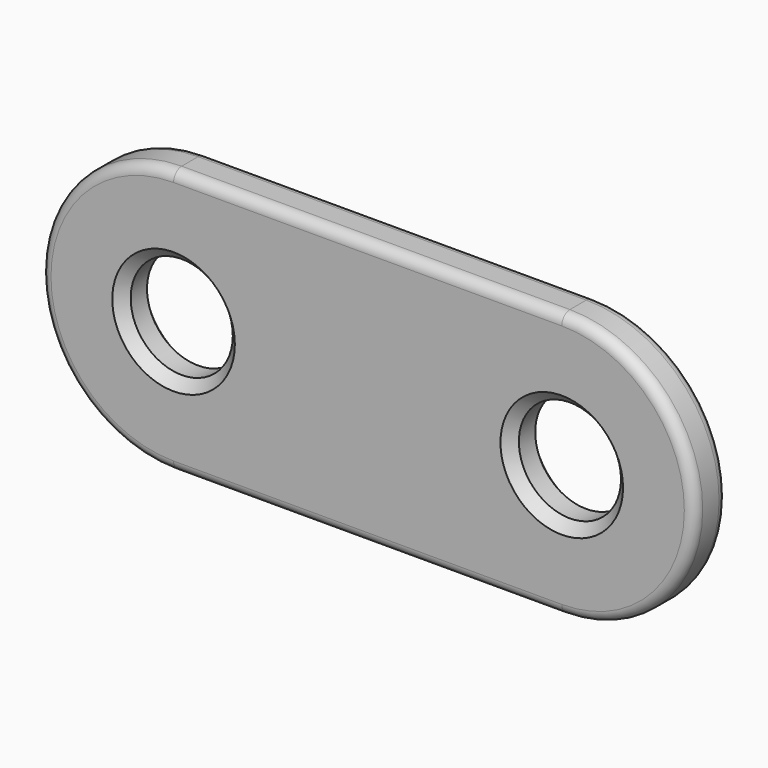
from build123d import *

# Parameters (mm, degrees)
F0_R     = 2.5
F1_DEPTH = 2
F2_SIZE  = 0.5
F3_R     = 0.5


with BuildPart() as f1:
    # F0 (on Front) → F1 (new body)
    with BuildSketch(Plane.XZ):
        with BuildLine():
            Line((-2.641257, 12.3198), (-21.641257, 12.3198))
            ThreePointArc((-21.641257, 12.3198), (-28.141257, 5.8198), (-21.641257, -0.6802))
            Line((-21.641257, -0.6802), (-2.641257, -0.6802))
            ThreePointArc((-2.641257, -0.6802), (3.858743, 5.8198), (-2.641257, 12.3198))
        make_face()
        with Locations((-21.641257, 5.8198)):
            Circle(F0_R, mode=Mode.SUBTRACT)
        with Locations((-2.641257, 5.8198)):
            Circle(F0_R, mode=Mode.SUBTRACT)
    extrude(amount=F1_DEPTH)

    # F2
    f2_edges = [f1.edges().sort_by_distance(p)[0] for p in [
        (-24.141257, -2, 5.8198),
        (-5.141257, -2, 5.8198),
        (-5.141257, 0, 5.8198),
        (-24.141257, 0, 5.8198),
    ]]
    chamfer(f2_edges, length=F2_SIZE)

    # F3
    f3_edges = [f1.edges().sort_by_distance(p)[0] for p in [
        (-12.141257, 0, 12.3198),
        (-12.141257, -2, 12.3198),
    ]]
    fillet(f3_edges, radius=F3_R)


solid = f1.part
